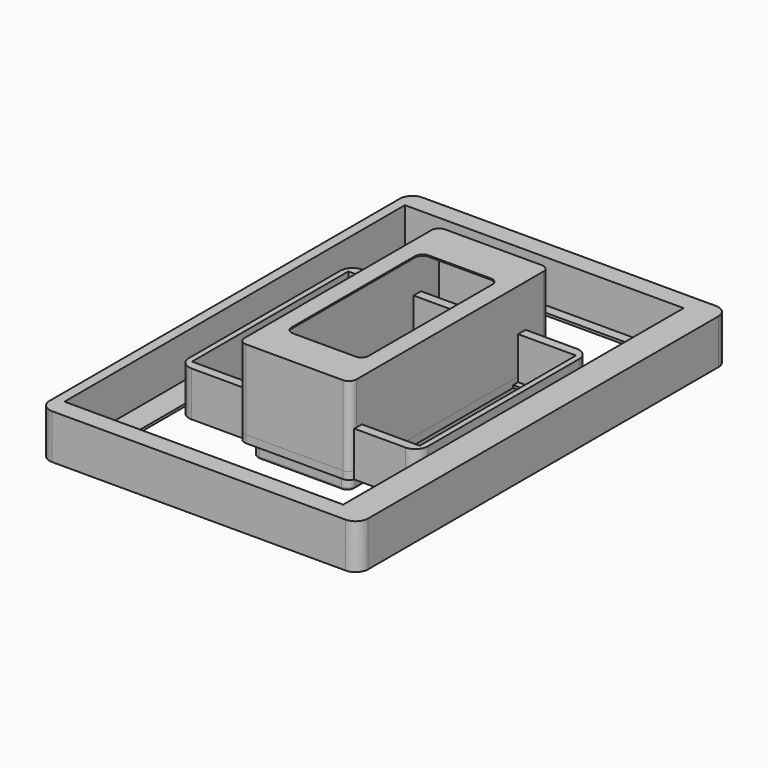
from build123d import *

# Parameters (mm, degrees)
SKETCH_W        = 45
SKETCH_H        = 100
PAD_DEPTH       = 35
SKETCH001_W     = 31
SKETCH001_H     = 68
POCKET_DEPTH    = 35.001
SKETCH002_W     = 39
SKETCH002_H     = 94
POCKET001_DEPTH = 34.5
FILLET_R        = 3
SKETCH003_W     = 45
SKETCH003_H     = 100
PAD001_DEPTH    = 3
SKETCH005_W     = 39
SKETCH005_H     = 94
PAD002_DEPTH    = 6
FILLET001_R     = 3
SKETCH006_W     = 33
SKETCH006_H     = 88
POCKET002_DEPTH = 6
FILLET002_R     = 2
FILLET003_R     = 1
SKETCH007_W     = 96
SKETCH007_H     = 86
PAD003_DEPTH    = 18
SKETCH008_W     = 91.5
SKETCH008_H     = 78.5
POCKET003_DEPTH = 17
SKETCH009_W     = 87
SKETCH009_H     = 66
POCKET004_DEPTH = 1.001
FILLET004_R     = 5
SKETCH010_W     = 128
SKETCH010_H     = 186
PAD004_DEPTH    = 18
SKETCH011_W     = 112
SKETCH011_H     = 171
POCKET005_DEPTH = 17
SKETCH012_W     = 98
SKETCH012_H     = 162
POCKET006_DEPTH = 1.001
FILLET005_R     = 5
FILLET006_R     = 1


with BuildPart() as body:
    # Sketch → Pad (new body)
    with BuildSketch(Plane.XY):
        with Locations((0, 5)):
            Rectangle(SKETCH_W, SKETCH_H)
    extrude(amount=PAD_DEPTH)

    # Sketch001 (on Face6 of Pad) → Pocket (cut, through all)
    with BuildSketch(Plane.XY.offset(35)):
        with Locations((0, 4)):
            Rectangle(SKETCH001_W, SKETCH001_H)
    extrude(amount=-POCKET_DEPTH, mode=Mode.SUBTRACT)

    # Sketch002 (on Face4 of Pocket) → Pocket001 (cut)
    with BuildSketch(Plane(origin=(0, 0, 0), x_dir=(1, 0, 0), z_dir=(0, 0, -1))):
        with Locations((0, -5)):
            Rectangle(SKETCH002_W, SKETCH002_H)
    extrude(amount=-POCKET001_DEPTH, mode=Mode.SUBTRACT)

    # Fillet
    fillet_edges = [body.edges().sort_by_distance(p)[0] for p in [
        (15.5, 38, 34.75),
        (15.5, -30, 34.75),
        (-15.5, -30, 34.75),
        (-15.5, 38, 34.75),
        (22.5, 55, 17.5),
        (22.5, -45, 17.5),
        (-22.5, -45, 17.5),
        (-22.5, 55, 17.5),
    ]]
    fillet(fillet_edges, radius=FILLET_R)


with BuildPart() as lid:
    # Sketch003 → Pad001 (new body)
    with BuildSketch(Plane.XY):
        with Locations((0, 5)):
            Rectangle(SKETCH003_W, SKETCH003_H)
    extrude(amount=PAD001_DEPTH)

    # Sketch005 (on Face5 of Pad001) → Pad002 (join)
    with BuildSketch(Plane(origin=(0, 0, 0), x_dir=(1, 0, 0), z_dir=(0, 0, -1))):
        with Locations((0, -5)):
            Rectangle(SKETCH005_W, SKETCH005_H)
    extrude(amount=PAD002_DEPTH)

    # Fillet001
    fillet001_edges = [lid.edges().sort_by_distance(p)[0] for p in [
        (22.5, -45, 1.5),
        (19.5, -42, -3),
        (22.5, 55, 1.5),
        (19.5, 52, -3),
        (-22.5, -45, 1.5),
        (-19.5, -42, -3),
        (-22.5, 55, 1.5),
        (-19.5, 52, -3),
    ]]
    fillet(fillet001_edges, radius=FILLET001_R)

    # Sketch006 (on Face19 of Fillet001) → Pocket002 (cut)
    with BuildSketch(Plane(origin=(0, 0, -6), x_dir=(1, 0, 0), z_dir=(0, 0, -1))):
        with Locations((0, -5)):
            Rectangle(SKETCH006_W, SKETCH006_H)
    extrude(amount=-POCKET002_DEPTH, mode=Mode.SUBTRACT)

    # Fillet002
    fillet002_edges = [lid.edges().sort_by_distance(p)[0] for p in [
        (16.5, 49, -3),
        (-16.5, 49, -3),
        (-16.5, -39, -3),
        (16.5, -39, -3),
    ]]
    fillet(fillet002_edges, radius=FILLET002_R)

    # Fillet003
    fillet003_edges = [lid.edges().sort_by_distance(p)[0] for p in [
        (0, -39, 0),
        (-15.914214, -38.414214, 0),
        (15.914214, -38.414214, 0),
        (-16.5, 5, 0),
        (16.5, 5, 0),
        (-15.914214, 48.414214, 0),
        (15.914214, 48.414214, 0),
        (0, 49, 0),
        (0, -39, -6),
        (-15.914214, -38.414214, -6),
        (15.914214, -38.414214, -6),
        (-16.5, 5, -6),
        (16.5, 5, -6),
        (-15.914214, 48.414214, -6),
        (15.914214, 48.414214, -6),
        (0, 49, -6),
        (0, -42, -6),
        (-18.62132, -41.12132, -6),
        (18.62132, -41.12132, -6),
        (-19.5, 5, -6),
        (19.5, 5, -6),
        (-18.62132, 51.12132, -6),
        (18.62132, 51.12132, -6),
        (0, 52, -6),
    ]]
    fillet(fillet003_edges, radius=FILLET003_R)


with BuildPart() as screen_panel:
    # Sketch007 → Pad003 (new body)
    with BuildSketch(Plane.XY):
        Rectangle(SKETCH007_W, SKETCH007_H)
    extrude(amount=PAD003_DEPTH)

    # Sketch008 (on Face6 of Pad003) → Pocket003 (cut)
    with BuildSketch(Plane.XY.offset(18)):
        Rectangle(SKETCH008_W, SKETCH008_H)
    extrude(amount=-POCKET003_DEPTH, mode=Mode.SUBTRACT)

    # Sketch009 (on Face11 of Pocket003) → Pocket004 (cut, through all)
    with BuildSketch(Plane.XY.offset(1)):
        with Locations((0, 3.75)):
            Rectangle(SKETCH009_W, SKETCH009_H)
    extrude(amount=-POCKET004_DEPTH, mode=Mode.SUBTRACT)

    # Fillet004
    fillet004_edges = [screen_panel.edges().sort_by_distance(p)[0] for p in [
        (-48, -43, 9),
        (-48, 43, 9),
        (48, 43, 9),
        (48, -43, 9),
    ]]
    fillet(fillet004_edges, radius=FILLET004_R)


with BuildPart() as body003:
    # Sketch010 → Pad004 (new body)
    with BuildSketch(Plane.XY):
        Rectangle(SKETCH010_W, SKETCH010_H)
    extrude(amount=PAD004_DEPTH)

    # Sketch011 (on Face6 of Pad004) → Pocket005 (cut)
    with BuildSketch(Plane.XY.offset(18)):
        with Locations((-4, 0)):
            Rectangle(SKETCH011_W, SKETCH011_H)
    extrude(amount=-POCKET005_DEPTH, mode=Mode.SUBTRACT)

    # Sketch012 (on Face11 of Pocket005) → Pocket006 (cut, through all)
    with BuildSketch(Plane.XY.offset(1)):
        with Locations((-1, 0.5)):
            Rectangle(SKETCH012_W, SKETCH012_H)
    extrude(amount=-POCKET006_DEPTH, mode=Mode.SUBTRACT)

    # Fillet005
    fillet005_edges = [body003.edges().sort_by_distance(p)[0] for p in [
        (-64, -93, 9),
        (-64, 93, 9),
        (64, 93, 9),
        (64, -93, 9),
    ]]
    fillet(fillet005_edges, radius=FILLET005_R)

    # Fillet006
    fillet006_edges = [body003.edges().sort_by_distance(p)[0] for p in [
        (-50, -80.5, 0.5),
        (48, -80.5, 0.5),
        (48, 81.5, 0.5),
        (-50, 81.5, 0.5),
    ]]
    fillet(fillet006_edges, radius=FILLET006_R)


solid = Compound([body.part, lid.part, screen_panel.part, body003.part])
